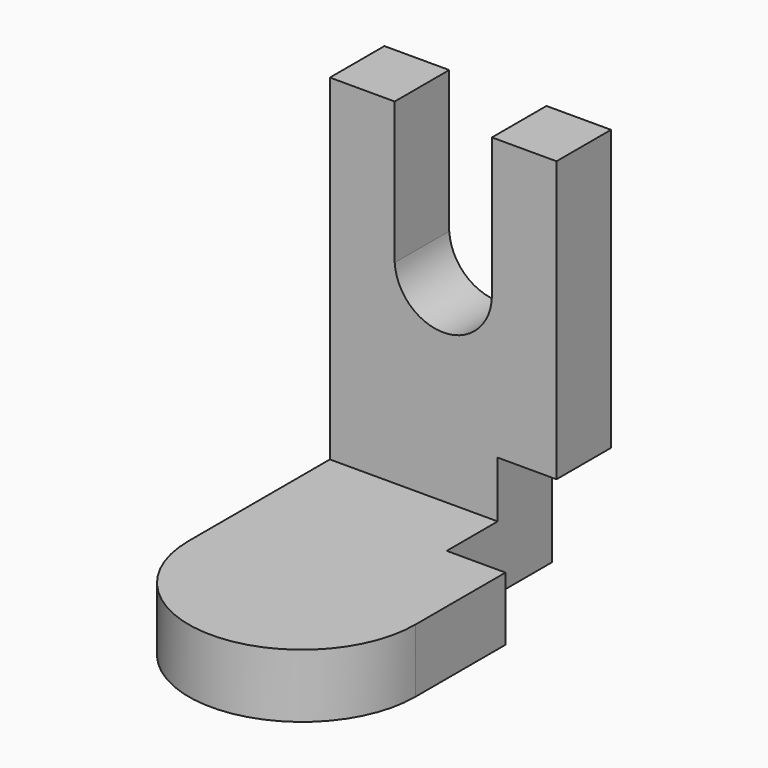
from build123d import *

# Parameters (mm, degrees)
F1_DEPTH = 25.4
F3_START = -50.8
F3_DEPTH = 23.6925811887
F5_START = 20.32
F4_W     = 61.8592891842
F4_H     = 58.0035075545
F5_DEPTH = 21.9097418118


with BuildPart() as f1:
    # F0 (on Front) → F1 (new body)
    with BuildSketch(Plane.XZ):
        with BuildLine():
            Line((42.2297418118, -74.4925811887), (42.2297418118, 74.4925811887))
            Line((42.2297418118, 74.4925811887), (18.1675682396, 74.4925811887))
            Line((18.1675682396, 74.4925811887), (18.1675682396, 22.7355392748))
            ThreePointArc((18.1675682396, 22.7355392748), (0.5941393293, 4.6073781801), (-18.0712514327, 21.6091079758))
            Line((-18.0712514327, 21.6091079758), (-18.0712514327, 74.4925811887))
            Line((-18.0712514327, 74.4925811887), (-42.2297418118, 74.4925811887))
            Line((-42.2297418118, 74.4925811887), (-42.2297418118, -74.4925811887))
            Line((-42.2297418118, -74.4925811887), (42.2297418118, -74.4925811887))
        make_face()
    extrude(amount=F1_DEPTH)

    # F2 (on Top) → F3 (join)
    with BuildSketch(Plane.XY.offset(F3_START)):
        with BuildLine():
            Line((42.2297418118, -91.1553874612), (42.2297418118, 0))
            Line((42.2297418118, 0), (-42.2297418118, 0))
            Line((-42.2297418118, 0), (-42.2297418118, -91.1553874612))
            ThreePointArc((-42.2297418118, -91.1553874612), (0, -133.3851292729), (42.2297418118, -91.1553874612))
        make_face()
    extrude(amount=-F3_DEPTH)

    # F4 (on Right) → F5 (cut)
    with BuildSketch(Plane.YZ.offset(F5_START)):
        with Locations((-18.2296438143, -58.8643811643)):
            Rectangle(F4_W, F4_H)
    extrude(amount=F5_DEPTH, mode=Mode.SUBTRACT)


solid = f1.part
